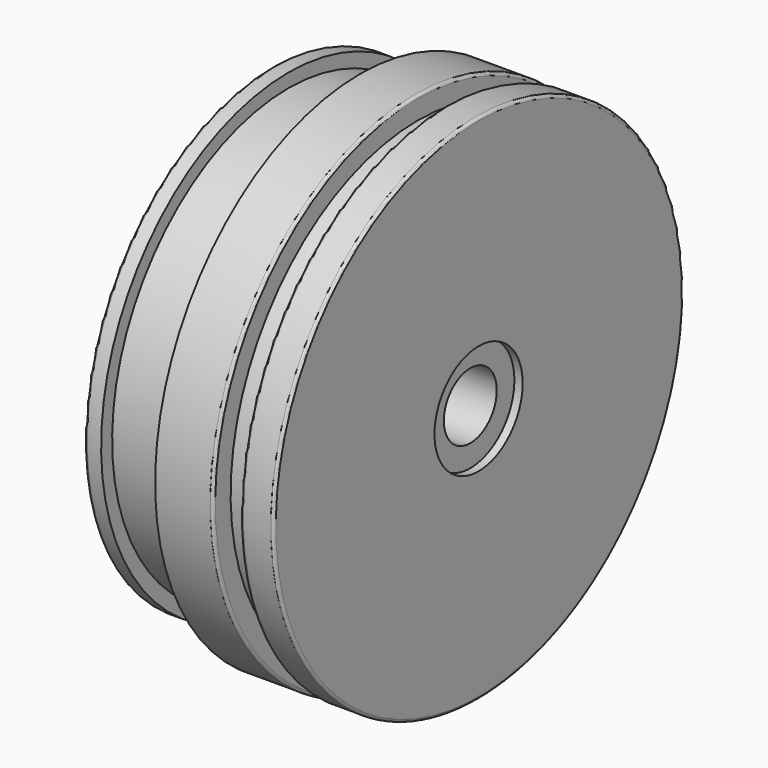
from build123d import *


with BuildPart() as f1:
    # F0 (on Front) → F1 (revolve)
    with BuildSketch(Plane.XZ):
        with BuildLine():
            Line((0, 42), (0, 10))
            Line((0, 10), (1.5, 10))
            Line((1.5, 10), (1.5, 6))
            Line((1.5, 6), (36, 6))
            Line((36, 6), (36, 10))
            Line((36, 10), (37.5, 10))
            Line((37.5, 10), (37.5, 46))
            ThreePointArc((37.5, 46), (37.3535533906, 46.3535533906), (37, 46.5))
            Line((37, 46.5), (32, 46.5))
            ThreePointArc((32, 46.5), (31.6464466094, 46.3535533906), (31.5, 46))
            Line((31.5, 46), (31.5, 42.5))
            Line((31.5, 42.5), (26.5, 42.5))
            Line((26.5, 42.5), (26.5, 46))
            ThreePointArc((26.5, 46), (26.3535533906, 46.3535533906), (26, 46.5))
            Line((26, 46.5), (16, 46.5))
            Line((16, 46.5), (16, 40))
            Line((16, 40), (3, 40))
            Line((3, 40), (3, 42.5))
            Line((3, 42.5), (0.5, 42.5))
            ThreePointArc((0.5, 42.5), (0.1464466094, 42.3535533906), (0, 42))
        make_face()
    revolve(axis=Axis((18.75, 0, 0), (-1, 0, 0)))


solid = f1.part
